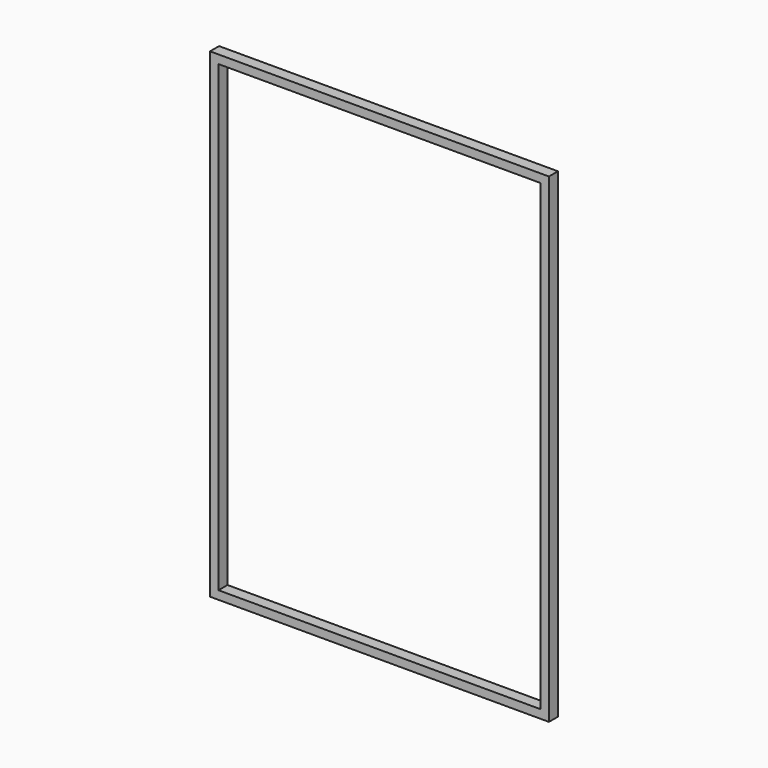
from build123d import *

# Parameters (mm, degrees)
F0_W     = 600
F0_H     = 850
F0_W_2   = 570
F0_H_2   = 820
F1_DEPTH = 20
F2_W     = 600
F2_H     = 850
F3_DEPTH = 5
F4_W     = 570
F4_H     = 820
F5_DEPTH = 25


with BuildPart() as f1:
    # F0 (on Front) → F1 (new body)
    with BuildSketch(Plane.XZ):
        with Locations((260.588973, 360.083479)):
            Rectangle(F0_W, F0_H)
        with Locations((260.588973, 360.083479)):
            Rectangle(F0_W_2, F0_H_2, mode=Mode.SUBTRACT)
    extrude(amount=F1_DEPTH)

    # F2 (on face) → F3 (join)
    with BuildSketch(Plane.XZ.offset(20)):
        with Locations((260.588973, 360.083479)):
            Rectangle(F2_W, F2_H)
    extrude(amount=-F3_DEPTH)

    # F4 (on face) → F5 (cut)
    with BuildSketch(Plane(origin=(0, -15, 0), x_dir=(-1, 0, 0), z_dir=(0, 1, 0))):
        with Locations((-260.588973, 360.083479)):
            Rectangle(F4_W, F4_H)
    extrude(amount=-F5_DEPTH, mode=Mode.SUBTRACT)


solid = f1.part
